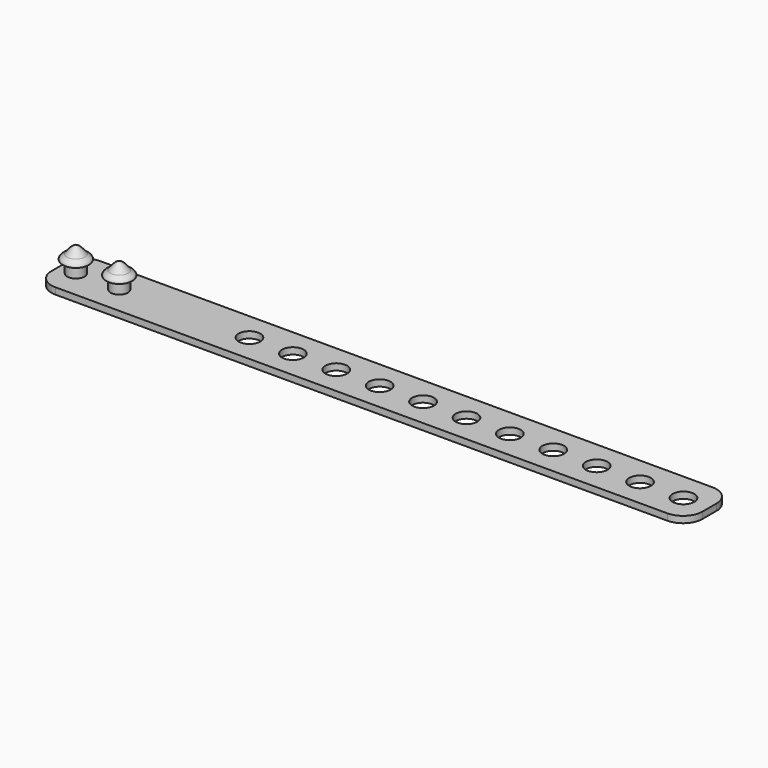
from build123d import *

# Parameters (mm, degrees)
CYLINDER004_R     = 2
CYLINDER004_DEPTH = 2.3
ARRAY_X_COUNT     = 2
ARRAY_X_PITCH     = 10
CYLINDER003_R     = 2.5
CYLINDER003_DEPTH = 10
ARRAY001_X_COUNT  = 11
ARRAY001_X_PITCH  = 10
BOX001_W          = 150
BOX001_H          = 13
BOX001_DEPTH      = 1.5
FILLET001_R       = 4.5


with BuildPart() as button_clone:
    # Sketch → Revolve (revolve)
    with BuildSketch(Plane.XZ):
        with BuildLine():
            Line((-2.2, 0), (0, 0))
            Line((0, 0), (0, 3.513454))
            add(Edge.make_bspline(
                [(0, 3.513454), (-0.678463, 3.195757), (-0.989147, 2.937398), (-1.619509, 2.257916), (-2.069526, 1.674454)],
                knots=[0, 0, 0, 0, 0.5, 1, 1, 1, 1], degree=3))
            add(Edge.make_bspline(
                [(-2.069526, 1.674454), (-2.787947, 1.236244), (-3.158335, 0.790309), (-3.182894, 0.331863), (-2.2, 0)],
                knots=[0, 0, 0, 0, 0.5, 1, 1, 1, 1], degree=3))
        make_face()
    revolve(axis=Axis((0, 0, 0), (0, 0, 1)))


with BuildPart() as button_clone_1:
    # Body001 placement: moved
    add(button_clone.part.moved(Location((0, 0, 2.3))))


with BuildPart() as button_array:
    # Cylinder004 → Cylinder004 (new body)
    with BuildSketch(Plane.XY):
        Circle(CYLINDER004_R)
    extrude(amount=CYLINDER004_DEPTH)

    # Fusion002: union button clone
    add(button_clone_1.part)

    # Array X: button_array ×2


with BuildPart() as button_array_1:
    add(button_array.part)
    with Locations(*[(i * ARRAY_X_PITCH, 0, 0) for i in range(1, ARRAY_X_COUNT)]):
        add(button_array.part)


with BuildPart() as button_array_2:
    # Array placement: moved
    add(button_array_1.part.moved(Location((4, 6.5, 1.5))))


with BuildPart() as button_hole_array:
    # Cylinder003 → Cylinder003 (new body)
    with BuildSketch(Plane.XY):
        Circle(CYLINDER003_R)
    extrude(amount=CYLINDER003_DEPTH)

    # Array001 X: button hole array ×11


with BuildPart() as button_hole_array_1:
    add(button_hole_array.part)
    with Locations(*[(i * ARRAY001_X_PITCH, 0, 0) for i in range(1, ARRAY001_X_COUNT)]):
        add(button_hole_array.part)


with BuildPart() as button_hole_array_2:
    # Array001 placement: moved
    add(button_hole_array_1.part.moved(Location((44, 6.5, 0))))


with BuildPart() as strap_union:
    # Box001 → Box001 (new body)
    with BuildSketch(Plane.XY):
        with Locations((75, 6.5)):
            Rectangle(BOX001_W, BOX001_H)
    extrude(amount=BOX001_DEPTH)

    # Fillet001
    fillet001_edges = [strap_union.edges().sort_by_distance(p)[0] for p in [
        (0, 0, 0.75),
        (0, 13, 0.75),
        (150, 0, 0.75),
        (150, 13, 0.75),
    ]]
    fillet(fillet001_edges, radius=FILLET001_R)

    # Cut002: cut button hole array
    add(button_hole_array_2.part, mode=Mode.SUBTRACT)

    # Fusion001: union button_array
    add(button_array_2.part)


solid = strap_union.part
